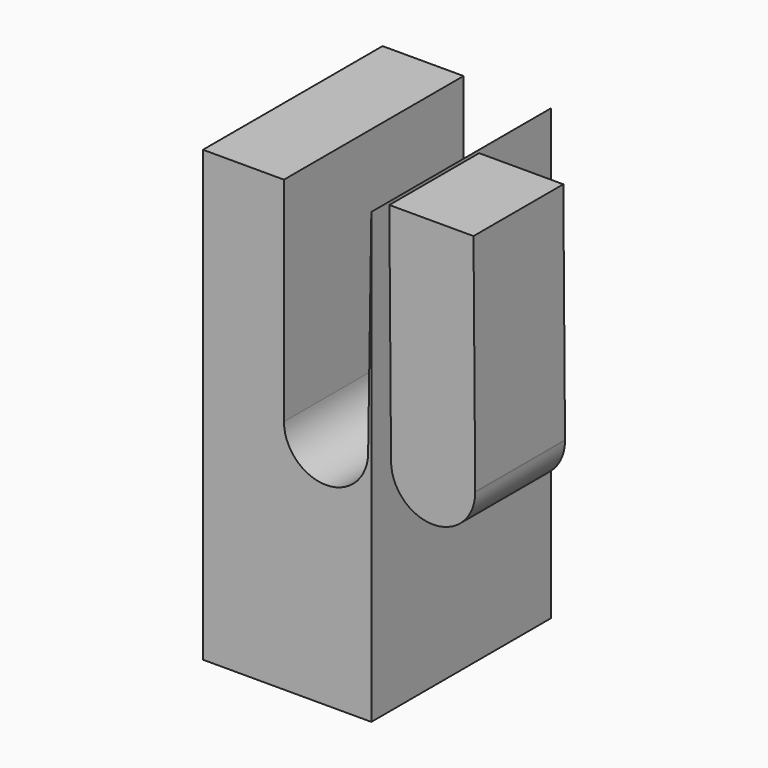
from build123d import *

# Parameters (mm, degrees)
F1_DEPTH = 25.4
F3_DEPTH = 25.4
F4_DEPTH = 25.4


with BuildPart() as f1:
    # F0 (on Front) → F1 (new body)
    with BuildSketch(Plane.XZ):
        with BuildLine():
            ThreePointArc((9.523884, 0.145835), (-0.07292, 9.524721), (-9.525, 0))
            ThreePointArc((-9.525, 0), (0, -9.525), (9.525, 0))
            Line((9.525, 0), (9.523884, 0.145835))
        make_face()
        with BuildLine():
            Line((-9.914824, 50.918512), (-9.525, 0))
            ThreePointArc((-9.525, 0), (-0.07292, 9.524721), (9.523884, 0.145835))
            Line((9.523884, 0.145835), (9.135176, 50.918512))
            Line((9.135176, 50.918512), (-9.914824, 50.918512))
        make_face()
        with BuildLine():
            Line((9.523884, 0.145835), (9.525, 0))
            ThreePointArc((9.525, 0), (9.524721, 0.07292), (9.523884, 0.145835))
        make_face()
    extrude(amount=F1_DEPTH)

    # F2 (on Front) → F3 (cut)
    with BuildSketch(Plane.XZ):
        with BuildLine():
            Line((-13.98671, 48.209866), (-33.76022, 48.209866))
            Line((-33.76022, 48.209866), (-33.76022, 0))
            ThreePointArc((-33.76022, 0), (-24.23522, 9.525), (-14.71022, 0))
            Line((-14.71022, 0), (-13.98671, 48.209866))
        make_face()
        with BuildLine():
            ThreePointArc((-14.71022, 0), (-24.23522, 9.525), (-33.76022, 0))
            Line((-33.76022, 0), (-14.71022, 0))
        make_face()
        with BuildLine():
            Line((-14.71022, 0), (-33.76022, 0))
            ThreePointArc((-33.76022, 0), (-24.23522, -9.525), (-14.71022, 0))
        make_face()
    extrude(amount=-F3_DEPTH, mode=Mode.SUBTRACT)


with BuildPart() as f4:
    # F2 (on Front) → F4 (new body, symmetric)
    with BuildSketch(Plane.XZ):
        with BuildLine():
            Line((-33.76022, 48.209866), (-52.08671, 48.209866))
            Line((-52.08671, 48.209866), (-52.08671, -53.390134))
            Line((-52.08671, -53.390134), (-13.98671, -53.390134))
            Line((-13.98671, -53.390134), (-13.98671, 48.209866))
            Line((-13.98671, 48.209866), (-14.71022, 0))
            ThreePointArc((-14.71022, 0), (-24.23522, -9.525), (-33.76022, 0))
            Line((-33.76022, 0), (-33.76022, 48.209866))
        make_face()
    extrude(amount=F4_DEPTH, both=True)


solid = Compound([f1.part, f4.part])
